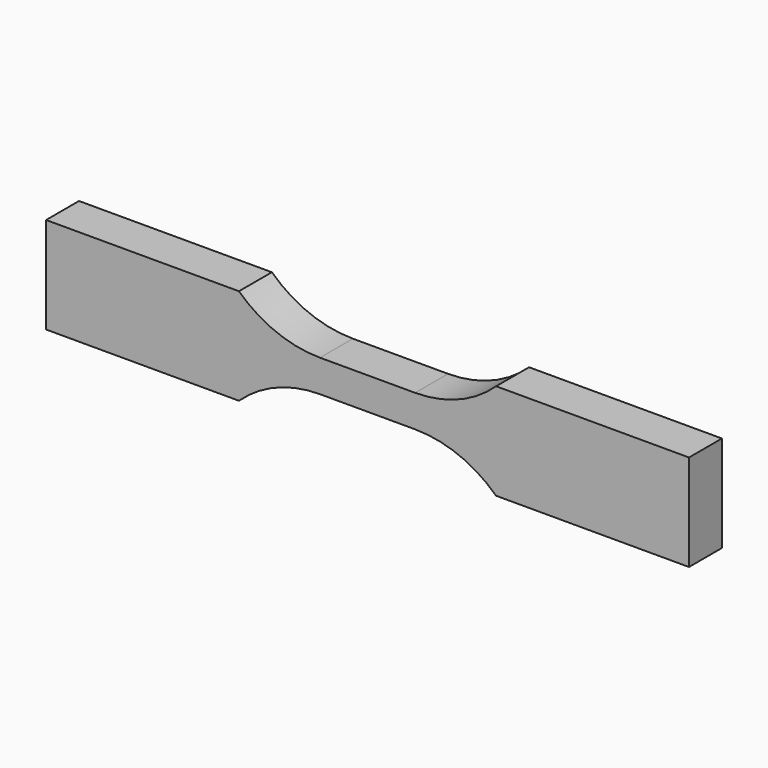
from build123d import *

# Parameters (mm, degrees)
F1_DEPTH = 4.064


with BuildPart() as f1:
    # F0 (on Front) → F1 (new body)
    with BuildSketch(Plane.XZ):
        with BuildLine():
            Line((4.699, 1.5875), (0, 1.5875))
            Line((0, 1.5875), (-4.699, 1.5875))
            ThreePointArc((-4.699, 1.5875), (-9.00297, 2.410256), (-12.7, 4.7625))
            Line((-12.7, 4.7625), (-31.75, 4.7625))
            Line((-31.75, 4.7625), (-31.75, -4.7625))
            Line((-31.75, -4.7625), (-12.7, -4.7625))
            ThreePointArc((-12.7, -4.7625), (-9.00297, -2.410256), (-4.699, -1.5875))
            Line((-4.699, -1.5875), (0, -1.5875))
            Line((0, -1.5875), (4.699, -1.5875))
            ThreePointArc((4.699, -1.5875), (9.00297, -2.410256), (12.7, -4.7625))
            Line((12.7, -4.7625), (31.75, -4.7625))
            Line((31.75, -4.7625), (31.75, 4.7625))
            Line((31.75, 4.7625), (12.7, 4.7625))
            ThreePointArc((12.7, 4.7625), (9.00297, 2.410256), (4.699, 1.5875))
        make_face()
    extrude(amount=F1_DEPTH)


solid = f1.part
